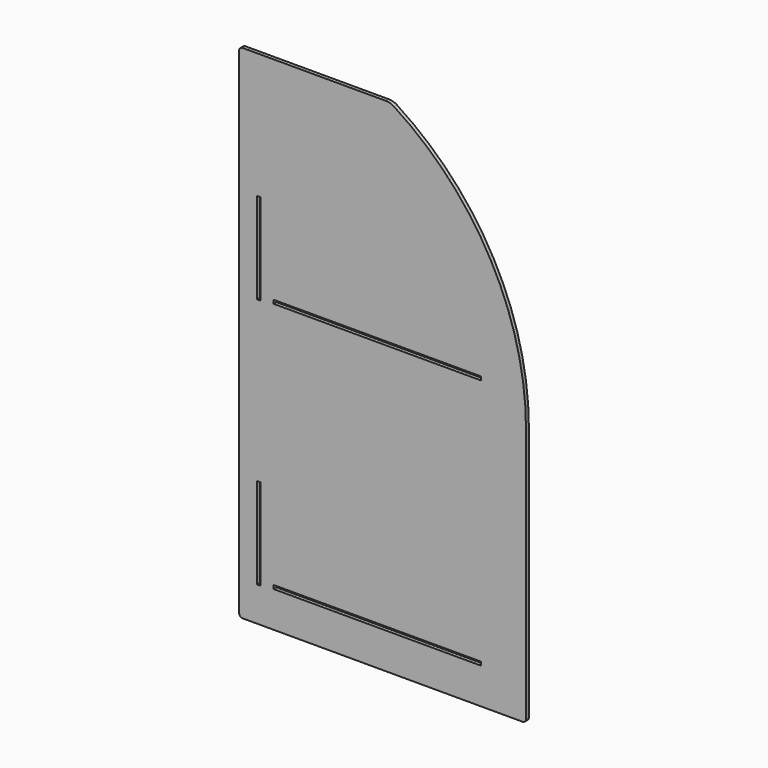
from build123d import *

# Parameters (mm, degrees)
F0_W     = 5
F0_H     = 127
F0_W_2   = 289
F0_H_2   = 5
F1_DEPTH = 5


with BuildPart() as f1:
    # F0 (on Front) → F1 (new body)
    with BuildSketch(Plane.XZ):
        with BuildLine():
            ThreePointArc((0, 5), (1.464466, 1.464466), (5, 0))
            Line((5, 0), (395, 0))
            ThreePointArc((395, 0), (398.535534, 1.464466), (400, 5))
            Line((400, 5), (400, 360))
            ThreePointArc((400, 360), (350.920298, 551.976416), (215.725279, 696.842105))
            ThreePointArc((215.725279, 696.842105), (210.55853, 699.194297), (204.939015, 700))
            Line((204.939015, 700), (5, 700))
            ThreePointArc((5, 700), (1.464466, 698.535534), (0, 695))
            Line((0, 695), (0, 5))
        make_face()
        with Locations((27.5, 111.5)):
            Rectangle(F0_W, F0_H, mode=Mode.SUBTRACT)
        with Locations((192.5, 52.5)):
            Rectangle(F0_W_2, F0_H_2, mode=Mode.SUBTRACT)
        with Locations((27.5, 461.5)):
            Rectangle(F0_W, F0_H, mode=Mode.SUBTRACT)
        with Locations((192.5, 402.5)):
            Rectangle(F0_W_2, F0_H_2, mode=Mode.SUBTRACT)
    extrude(amount=F1_DEPTH)


solid = f1.part
